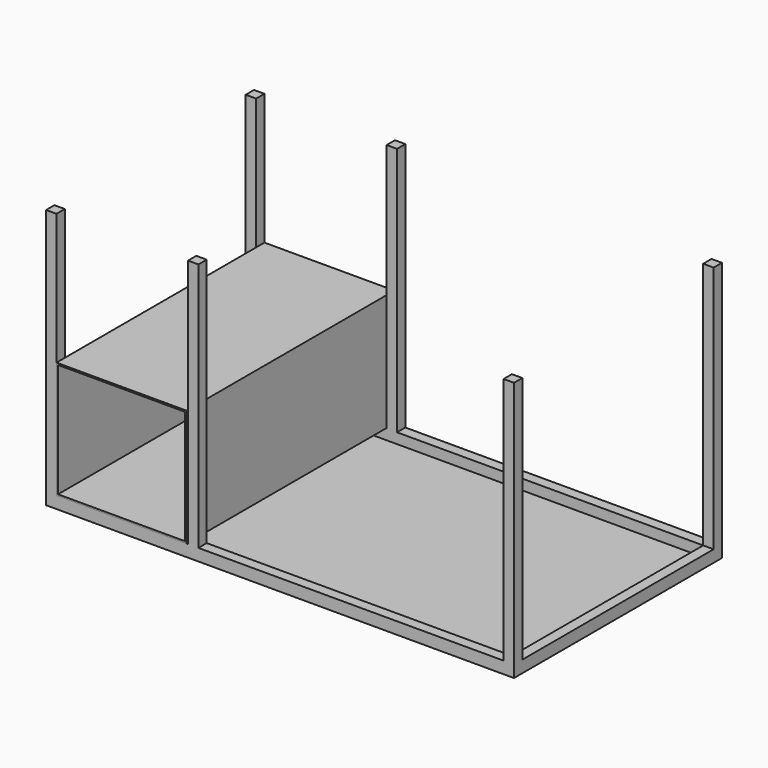
from build123d import *

# Parameters (mm, degrees)
F0_W      = 1800
F0_H      = 1000
F1_DEPTH  = 6
F2_W      = 40
F2_H      = 40
F3_DEPTH  = 1000
F4_W      = 40
F4_H      = 40
F5_DEPTH  = 935
F6_W      = 40
F6_H      = 40
F7_DEPTH  = 1742
F8_W      = 40
F8_H      = 40
F9_DEPTH  = 1734
F10_W     = 40
F10_H     = 40
F11_DEPTH = 941
F12_W     = 500
F12_H     = 450
F13_DEPTH = 1000
F14_W     = 488
F14_H     = 438
F15_DEPTH = 1308
F16_W     = 40
F16_H     = 40
F17_W     = 40
F17_H     = 40
F18_DEPTH = 960


with BuildPart() as f1:
    # F0 (on Top) → F1 (new body)
    with BuildSketch(Plane.XY):
        with Locations((-4.9572857097, 73.291340642)):
            Rectangle(F0_W, F0_H)
    extrude(amount=F1_DEPTH)

    # F2 (on face) → F3 (join)
    with BuildSketch(Plane(origin=(0, 0, 0), x_dir=(1, 0, 0), z_dir=(0, 0, -1))):
        with Locations((-884.9572857097, 406.708659358)):
            Rectangle(F2_W, F2_H)
        with Locations((875.0427142903, 406.708659358)):
            Rectangle(F2_W, F2_H)
        with Locations((875.0427142903, -553.291340642)):
            Rectangle(F2_W, F2_H)
        with Locations((-884.9572857097, -553.291340642)):
            Rectangle(F2_W, F2_H)
    extrude(amount=-F3_DEPTH)

    # F4 (on face) → F5 (join)
    with BuildSketch(Plane(origin=(0, -386.708659358, 0), x_dir=(-1, 0, 0), z_dir=(0, 1, 0))):
        with Locations((-875.0427142903, 26)):
            Rectangle(F4_W, F4_H)
    extrude(amount=F5_DEPTH)

    # F6 (on face) → F7 (join)
    with BuildSketch(Plane(origin=(855.0427142903, 0, 0), x_dir=(0, -1, 0), z_dir=(-1, 0, 0))):
        with Locations((-553.291340642, 26)):
            Rectangle(F6_W, F6_H)
    extrude(amount=F7_DEPTH)

    # F8 (on face) → F9 (join)
    with BuildSketch(Plane(origin=(855.0427142903, 0, 0), x_dir=(0, -1, 0), z_dir=(-1, 0, 0))):
        with Locations((406.708659358, 26)):
            Rectangle(F8_W, F8_H)
    extrude(amount=F9_DEPTH)

    # F10 (on face) → F11 (join)
    with BuildSketch(Plane.XZ.offset(-533.291340642)):
        with Locations((-884.9572857097, 26)):
            Rectangle(F10_W, F10_H)
    extrude(amount=F11_DEPTH)

    # F16 (on face) + F17 (on face) → F18 (join)
    with BuildSketch(Plane.XY.offset(46)):
        with Locations((-339.0490221977, -406.708659358)):
            Rectangle(F16_W, F16_H)
    with BuildSketch(Plane.XY.offset(46)):
        with Locations((-342.8259897232, 553.291340642)):
            Rectangle(F17_W, F17_H)
    extrude(amount=F18_DEPTH)


with BuildPart() as f13:
    # F12 (on face) → F13 (new body)
    with BuildSketch(Plane.XZ.offset(426.708659358)):
        with Locations((-614.9572857097, 271)):
            Rectangle(F12_W, F12_H)
    extrude(amount=-F13_DEPTH)

    # F14 (on face) → F15 (cut)
    with BuildSketch(Plane.XZ.offset(426.708659358)):
        with Locations((-614.9572857097, 271)):
            Rectangle(F14_W, F14_H)
    extrude(amount=-F15_DEPTH, mode=Mode.SUBTRACT)


solid = Compound([f1.part, f13.part])
